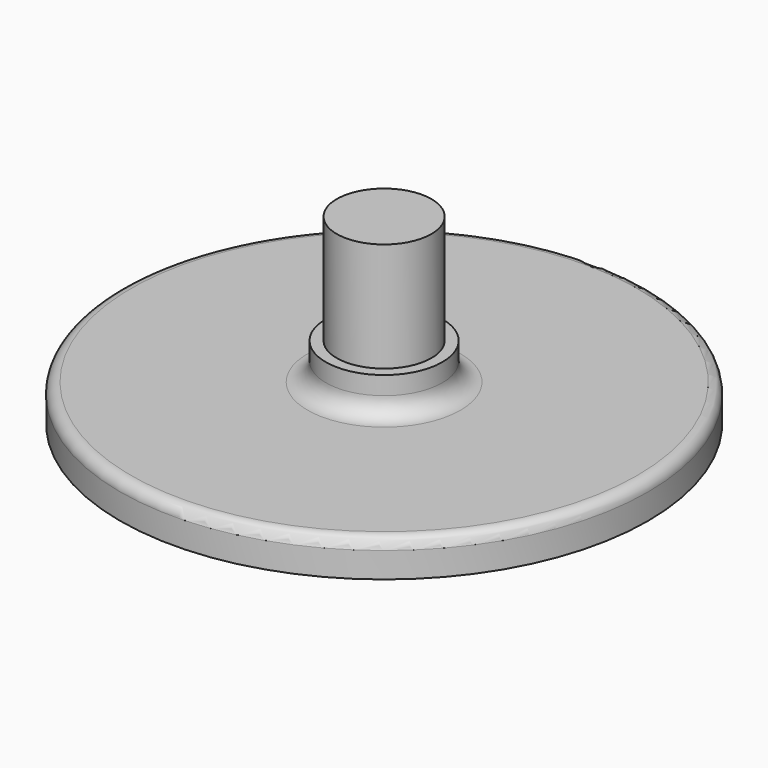
from build123d import *

# Parameters (mm, degrees)
F0_R     = 72.5
F1_DEPTH = 10
F2_R     = 16
F3_DEPTH = 10
F4_R     = 13
F5_DEPTH = 30
F6_R     = 3
F7_R     = 5


with BuildPart() as f1:
    # F0 (on Top) → F1 (new body)
    with BuildSketch(Plane.XY):
        Circle(F0_R)
    extrude(amount=F1_DEPTH)

    # F2 (on face) → F3 (join)
    with BuildSketch(Plane.XY.offset(10)):
        Circle(F2_R)
    extrude(amount=F3_DEPTH)

    # F4 (on face) → F5 (join)
    with BuildSketch(Plane.XY.offset(20)):
        Circle(F4_R)
    extrude(amount=F5_DEPTH)

    # F6
    f6_edges = [f1.edges().sort_by_distance(p)[0] for p in [
        (-72.5, 0, 10),
    ]]
    fillet(f6_edges, radius=F6_R)

    # F7
    f7_edges = [f1.edges().sort_by_distance(p)[0] for p in [
        (-72.5, 0, 7),
        (-69.5, 0, 10),
        (-16, 0, 10),
    ]]
    fillet(f7_edges, radius=F7_R)


solid = f1.part
